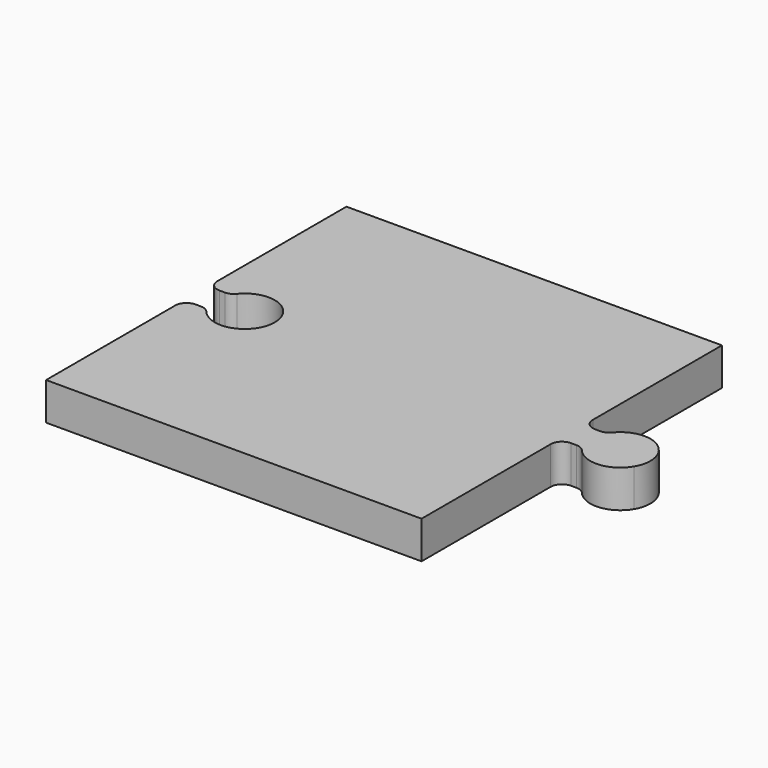
from build123d import *

# Parameters (mm, degrees)
F1_DEPTH = 5


with BuildPart() as f1:
    # F0 (on Top) → F1 (new body)
    with BuildSketch(Plane.XY):
        with BuildLine():
            Line((20.39348, 24.998625), (-29.60652, 24.998625))
            Line((-29.60652, 24.998625), (-29.60652, 3.498625))
            ThreePointArc((-29.60652, 3.498625), (-29.16718, 2.437965), (-28.10652, 1.998625))
            Line((-28.10652, 1.998625), (-27.38916, 1.998625))
            ThreePointArc((-27.38916, 1.998625), (-26.749558, 2.141824), (-26.232076, 2.54408))
            ThreePointArc((-26.232076, 2.54408), (-19.14652, -0.001375), (-26.232076, -2.546829))
            ThreePointArc((-26.232076, -2.546829), (-26.749558, -2.144574), (-27.38916, -2.001375))
            Line((-27.38916, -2.001375), (-28.10652, -2.001375))
            ThreePointArc((-28.10652, -2.001375), (-29.16718, -2.440715), (-29.60652, -3.501375))
            Line((-29.60652, -3.501375), (-29.60652, -25.001375))
            Line((-29.60652, -25.001375), (20.39348, -25.001375))
            Line((20.39348, -25.001375), (20.39348, -3.501375))
            ThreePointArc((20.39348, -3.501375), (20.83282, -2.440715), (21.89348, -2.001375))
            Line((21.89348, -2.001375), (22.62533, -2.001375))
            ThreePointArc((22.62533, -2.001375), (23.262129, -2.143256), (23.778462, -2.542059))
            ThreePointArc((23.778462, -2.542059), (27.183603, -3.970238), (30.307425, -2.001375))
            ThreePointArc((30.307425, -2.001375), (30.853429, -0.004081), (30.327622, 1.998625))
            ThreePointArc((30.327622, 1.998625), (27.187297, 4.002162), (23.757474, 2.54885))
            ThreePointArc((23.757474, 2.54885), (23.238864, 2.143143), (22.596471, 1.998625))
            Line((22.596471, 1.998625), (21.89348, 1.998625))
            ThreePointArc((21.89348, 1.998625), (20.83282, 2.437965), (20.39348, 3.498625))
            Line((20.39348, 3.498625), (20.39348, 24.998625))
        make_face()
    extrude(amount=F1_DEPTH)


solid = f1.part
